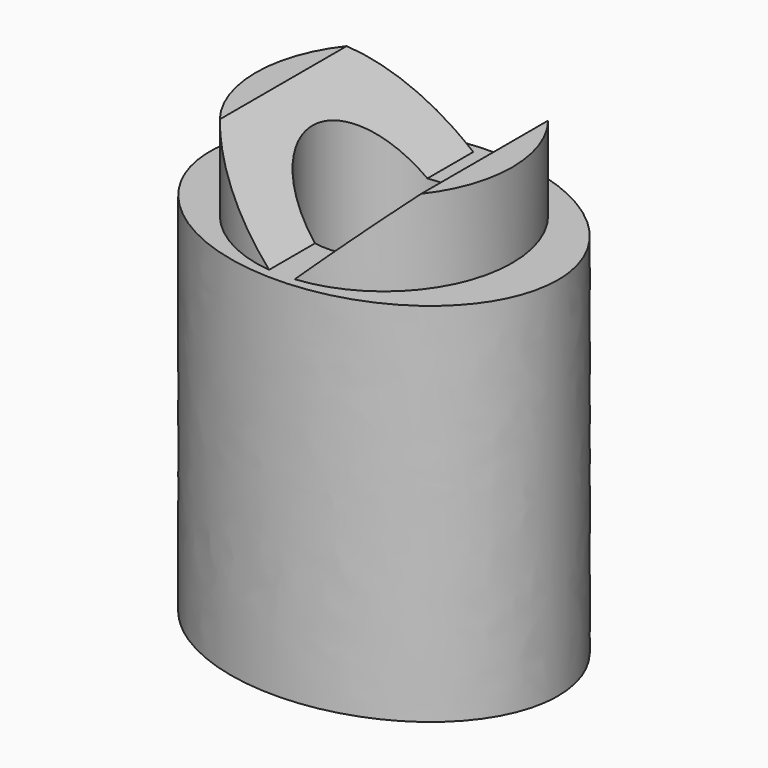
from build123d import *

# Parameters (mm, degrees)
F1_DEPTH = 20
F2_R     = 7
F3_DEPTH = 4.6
F5_DEPTH = 12.5
F6_R     = 3.9
F7_DEPTH = 24.601


with BuildPart() as f1:
    # F0 (on Top) → F1 (new body)
    with BuildSketch(Plane.XY):
        with BuildLine():
            add(Edge.make_bspline(
                [(9.5, 0), (9.5, 12.9903810568), (-4.75, 6.4951905284), (-19, 0), (-4.75, -6.4951905284), (9.5, -12.9903810568), (9.5, 0)],
                knots=[0, 0, 0, 2.0943951024, 2.0943951024, 4.1887902048, 4.1887902048, 6.2831853072, 6.2831853072, 6.2831853072], degree=2, weights=[1, 0.5, 1, 0.5, 1, 0.5, 1]))
        make_face()
    extrude(amount=F1_DEPTH)

    # F2 (on face) → F3 (join)
    with BuildSketch(Plane.XY.offset(20)):
        Circle(F2_R)
    extrude(amount=F3_DEPTH)

    # F4 (on Front) → F5 (cut, symmetric)
    with BuildSketch(Plane.XZ):
        Polygon((-5.5, 24.6), (-0.7, 20), (0.7, 20), (5.5, 24.6), (0.7, 24.6), (-0.7, 24.6), align=None)
    extrude(amount=F5_DEPTH, both=True, mode=Mode.SUBTRACT)

    # F6 (on face) → F7 (cut, through all)
    with BuildSketch(Plane(origin=(0, 0, 0), x_dir=(1, 0, 0), z_dir=(0, 0, -1))):
        Circle(F6_R)
    extrude(amount=-F7_DEPTH, mode=Mode.SUBTRACT)


solid = f1.part
